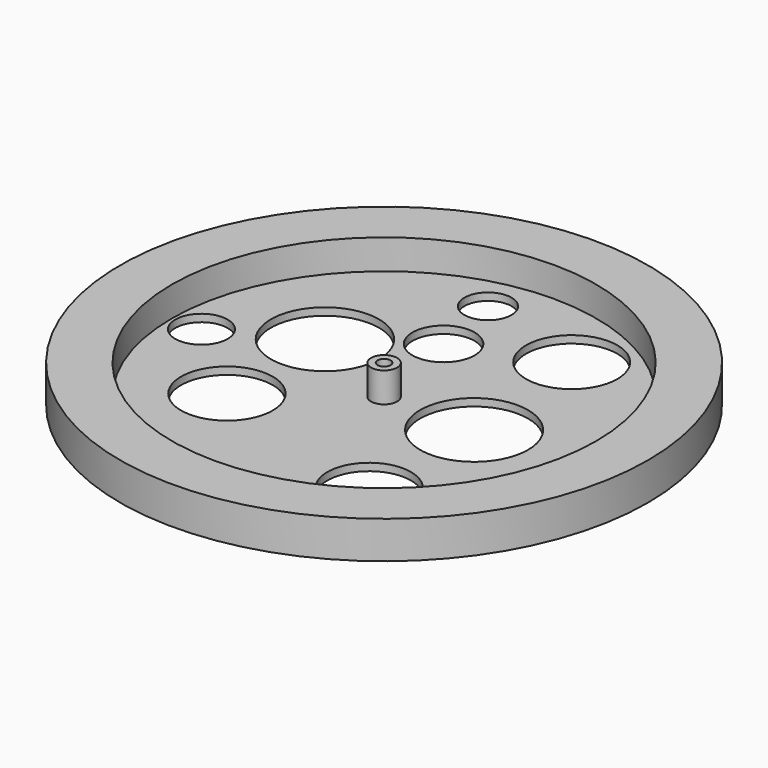
from build123d import *

# Parameters (mm, degrees)
F0_R      = 70.662875
F1_DEPTH  = 10
F2_R      = 56.784897
F3_DEPTH  = 8
F4_R      = 14.477715
F5_DEPTH  = 8
F6_R      = 12.226907
F7_DEPTH  = 8
F8_R      = 7.014045
F9_DEPTH  = 8
F10_R     = 14.443937
F11_DEPTH = 8
F13_R     = 6.303091
F14_DEPTH = 8
F15_R     = 8.317638
F16_DEPTH = 8
F17_R     = 6.025281
F18_DEPTH = 8
F19_R     = 11.209177
F20_DEPTH = 8
F12_R     = 3.5
F21_DEPTH = 8
F23_D     = 3.5
F24_R     = 12.274082
F25_DEPTH = 8


with BuildPart() as f1:
    # F0 (on Top) → F1 (new body)
    with BuildSketch(Plane.XY):
        Circle(F0_R)
    extrude(amount=F1_DEPTH)

    # F2 (on face) → F3 (cut)
    with BuildSketch(Plane.XY.offset(10)):
        Circle(F2_R)
    extrude(amount=-F3_DEPTH, mode=Mode.SUBTRACT)

    # F4 (on face) → F5 (cut)
    with BuildSketch(Plane.XY.offset(2)):
        with Locations((-25.900649, 12.583426)):
            Circle(F4_R)
    extrude(amount=-F5_DEPTH, mode=Mode.SUBTRACT)

    # F6 (on face) → F7 (cut)
    with BuildSketch(Plane.XY.offset(2)):
        with Locations((20.854684, 36.710624)):
            Circle(F6_R)
    extrude(amount=-F7_DEPTH, mode=Mode.SUBTRACT)

    # F8 (on face) → F9 (cut)
    with BuildSketch(Plane.XY.offset(2)):
        with Locations((-48.892226, 0)):
            Circle(F8_R)
    extrude(amount=-F9_DEPTH, mode=Mode.SUBTRACT)

    # F10 (on face) → F11 (cut)
    with BuildSketch(Plane.XY.offset(2)):
        with Locations((24.09202, 0)):
            Circle(F10_R)
    extrude(amount=-F11_DEPTH, mode=Mode.SUBTRACT)

    # F13 (on face) → F14 (cut)
    with BuildSketch(Plane.XY.offset(2)):
        with Locations((-8.595636, 45.51062)):
            Circle(F13_R)
    extrude(amount=-F14_DEPTH, mode=Mode.SUBTRACT)

    # F15 (on face) → F16 (cut)
    with BuildSketch(Plane.XY.offset(2)):
        with Locations((-5.225664, 26.43148)):
            Circle(F15_R)
    extrude(amount=-F16_DEPTH, mode=Mode.SUBTRACT)

    # F17 (on Top) → F18 (cut)
    with BuildSketch(Plane.XY):
        with Locations((14.564808, -20.261167)):
            Circle(F17_R)
    extrude(amount=-F18_DEPTH, mode=Mode.SUBTRACT)

    # F19 (on face) → F20 (cut)
    with BuildSketch(Plane.XY.offset(2)):
        with Locations((23.249339, -34.03841)):
            Circle(F19_R)
    extrude(amount=-F20_DEPTH, mode=Mode.SUBTRACT)

    # F12 (on face) → F21 (join)
    with BuildSketch(Plane.XY.offset(2)):
        Circle(F12_R)
    extrude(amount=F21_DEPTH)

    # F23 (through all)
    with Locations(Plane.XY.offset(10)):
        with Locations((0, 0)):
            Hole(F23_D / 2)

    # F24 (on face) → F25 (cut)
    with BuildSketch(Plane.XY.offset(2)):
        with Locations((-26.544379, -19.407054)):
            Circle(F24_R)
    extrude(amount=-F25_DEPTH, mode=Mode.SUBTRACT)


solid = f1.part
